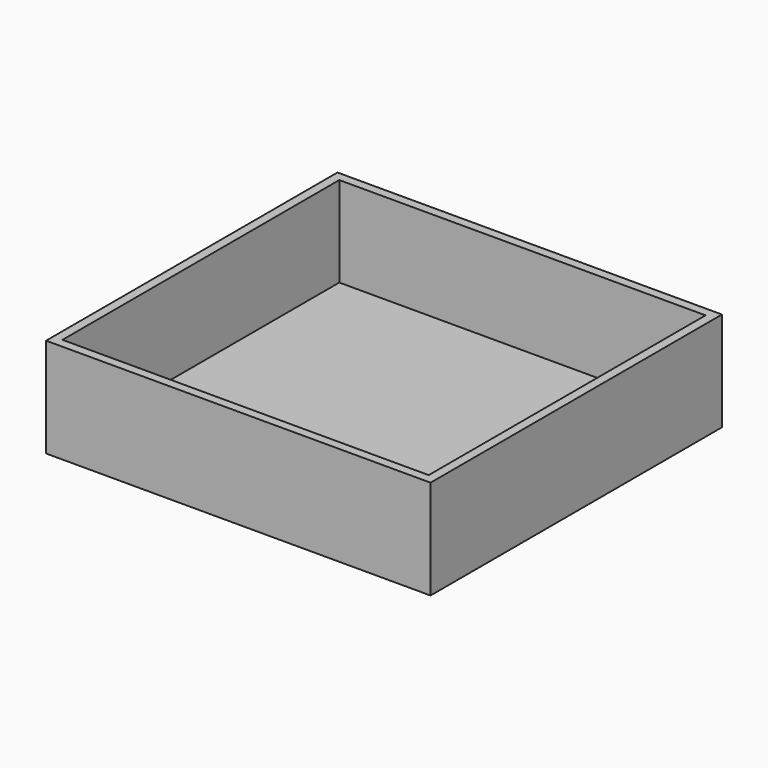
from build123d import *

# Parameters (mm, degrees)
F0_W     = 105.5573
F0_H     = 27.273659
F1_DEPTH = 100
F2_T     = -2.5


with BuildPart() as f1:
    # F0 (on Front) → F1 (new body)
    with BuildSketch(Plane.XZ):
        with Locations((-2.35622, 27.070901)):
            Rectangle(F0_W, F0_H)
        with Locations((-2.35622, 27.070901)):
            Rectangle(F0_W, F0_H)
    extrude(amount=F1_DEPTH)

    # F2
    f2_openings = [f1.faces().sort_by_distance(p)[0] for p in [
        (-2.35622, -50, 40.70773),
    ]]
    offset(amount=F2_T, openings=f2_openings)


solid = f1.part
